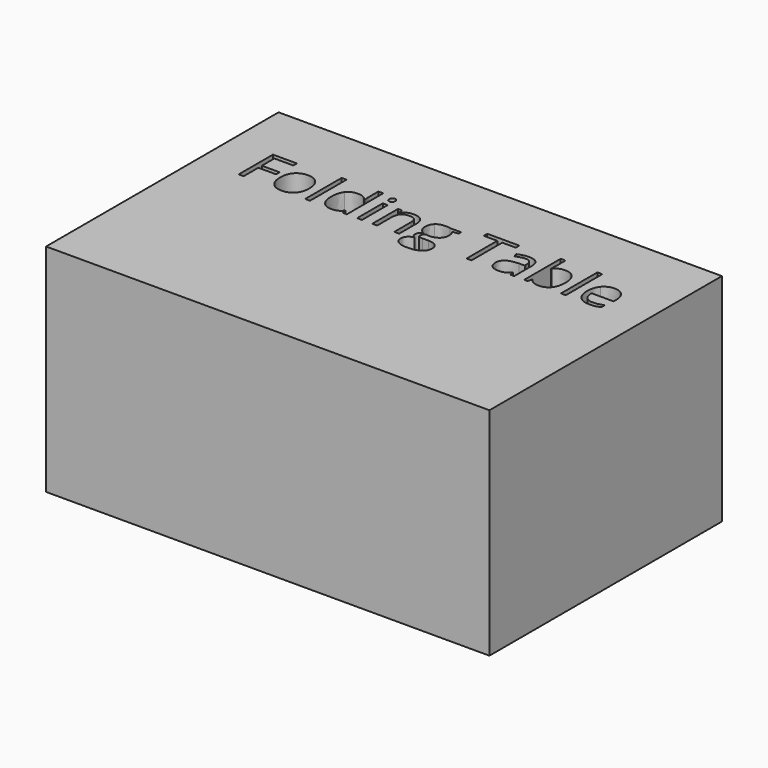
from build123d import *

# Parameters (mm, degrees)
F0_W     = 1511.3
F0_H     = 990.6
F0_W_2   = 16.5868941567
F0_H_2   = 155.4182394685
F0_H_3   = 109.4607177009
F1_DEPTH = 736.6


with BuildPart() as f1:
    # F0 (on Top) → F1 (new body)
    with BuildSketch(Plane.XY):
        Rectangle(F0_W, F0_H)
        Polygon((-597.9591323167, 211.9154573202), (-597.9591323167, 149.4988787305), (-614.929538477, 149.4988787305), (-614.929538477, 295.5210741102), (-533.5291157079, 295.5210741102), (-533.5291157079, 280.4362686343), (-597.9591323167, 280.4362686343), (-597.9591323167, 227.0002627961), (-537.4281544114, 227.0002627961), (-537.4281544114, 211.9154573202), align=None, mode=Mode.SUBTRACT)
        with BuildLine():
            add(Edge.make_bspline(
                [(-430.9236750717, 245.6804933059), (-417.3888972772, 230.3879521614), (-417.3888972772, 204.3410952487)],
                knots=[0, 0, 0, 1, 1, 1], degree=2))
            add(Edge.make_bspline(
                [(-417.3888972772, 204.3410952487), (-417.3888972772, 177.5591736623), (-430.8597564044, 162.5223071869)],
                knots=[0, 0, 0, 1, 1, 1], degree=2))
            add(Edge.make_bspline(
                [(-430.8597564044, 162.5223071869), (-444.3306155317, 147.4854407114), (-468.1083597564, 147.4854407114)],
                knots=[0, 0, 0, 1, 1, 1], degree=2))
            add(Edge.make_bspline(
                [(-468.1083597564, 147.4854407114), (-482.8096532286, 147.4854407114), (-494.1871760028, 154.3886567767)],
                knots=[0, 0, 0, 1, 1, 1], degree=2))
            add(Edge.make_bspline(
                [(-494.1871760028, 154.3886567767), (-505.564698777, 161.2918728419), (-511.7648095022, 174.1714842969)],
                knots=[0, 0, 0, 1, 1, 1], degree=2))
            add(Edge.make_bspline(
                [(-511.7648095022, 174.1714842969), (-517.9649202275, 187.051095752), (-517.9649202275, 204.3410952487)],
                knots=[0, 0, 0, 1, 1, 1], degree=2))
            add(Edge.make_bspline(
                [(-517.9649202275, 204.3410952487), (-517.9649202275, 231.0910575014), (-504.5739594343, 246.0320459759)],
                knots=[0, 0, 0, 1, 1, 1], degree=2))
            add(Edge.make_bspline(
                [(-504.5739594343, 246.0320459759), (-491.1829986411, 260.9730344504), (-467.4052544164, 260.9730344504)],
                knots=[0, 0, 0, 1, 1, 1], degree=2))
            add(Edge.make_bspline(
                [(-467.4052544164, 260.9730344504), (-444.4584528663, 260.9730344504), (-430.9236750717, 245.6804933059)],
                knots=[0, 0, 0, 1, 1, 1], degree=2))
        make_face(mode=Mode.SUBTRACT)
        with Locations((-380.0124565907, 227.2079984647)):
            Rectangle(F0_W_2, F0_H_2, mode=Mode.SUBTRACT)
        with BuildLine():
            Line((-259.8613417887, 149.4988787305), (-262.0665358096, 164.1682128691))
            Line((-262.0665358096, 164.1682128691), (-262.9613971513, 164.1682128691))
            add(Edge.make_bspline(
                [(-262.9613971513, 164.1682128691), (-274.4347979264, 147.4854407114), (-297.3176808093, 147.4854407114)],
                knots=[0, 0, 0, 1, 1, 1], degree=2))
            add(Edge.make_bspline(
                [(-297.3176808093, 147.4854407114), (-318.7943530122, 147.4854407114), (-330.731164125, 162.1707545169)],
                knots=[0, 0, 0, 1, 1, 1], degree=2))
            add(Edge.make_bspline(
                [(-330.731164125, 162.1707545169), (-342.6679752378, 176.8560683223), (-342.6679752378, 203.9256239114)],
                knots=[0, 0, 0, 1, 1, 1], degree=2))
            add(Edge.make_bspline(
                [(-342.6679752378, 203.9256239114), (-342.6679752378, 230.9951795005), (-330.6832251246, 245.9841069755)],
                knots=[0, 0, 0, 1, 1, 1], degree=2))
            add(Edge.make_bspline(
                [(-330.6832251246, 245.9841069755), (-318.6984750113, 260.9730344504), (-297.3176808093, 260.9730344504)],
                knots=[0, 0, 0, 1, 1, 1], degree=2))
            add(Edge.make_bspline(
                [(-297.3176808093, 260.9730344504), (-275.0420252655, 260.9730344504), (-263.1531531532, 244.7696522973)],
                knots=[0, 0, 0, 1, 1, 1], degree=2))
            Line((-263.1531531532, 244.7696522973), (-261.8428204741, 244.7696522973))
            Line((-261.8428204741, 244.7696522973), (-262.5459258141, 252.6636077053))
            Line((-262.5459258141, 252.6636077053), (-262.9613971513, 260.3658071114))
            Line((-262.9613971513, 260.3658071114), (-262.9613971513, 304.917118199))
            Line((-262.9613971513, 304.917118199), (-246.3745029946, 304.917118199))
            Line((-246.3745029946, 304.917118199), (-246.3745029946, 149.4988787305))
            Line((-246.3745029946, 149.4988787305), (-259.8613417887, 149.4988787305))
        make_face(mode=Mode.SUBTRACT)
        with Locations((-202.9257889174, 204.2292375809)):
            Rectangle(F0_W_2, F0_H_3, mode=Mode.SUBTRACT)
        with BuildLine():
            Line((-67.9775026423, 149.4988787305), (-84.564396799, 149.4988787305))
            Line((-84.564396799, 149.4988787305), (-84.564396799, 220.3207620663))
            add(Edge.make_bspline(
                [(-84.564396799, 220.3207620663), (-84.564396799, 233.6797635259), (-90.6526498566, 240.2793659216)],
                knots=[0, 0, 0, 1, 1, 1], degree=2))
            add(Edge.make_bspline(
                [(-90.6526498566, 240.2793659216), (-96.7409029141, 246.8789683173), (-109.7483517037, 246.8789683173)],
                knots=[0, 0, 0, 1, 1, 1], degree=2))
            add(Edge.make_bspline(
                [(-109.7483517037, 246.8789683173), (-126.9105138658, 246.8789683173), (-134.9003472746, 237.5947818962)],
                knots=[0, 0, 0, 1, 1, 1], degree=2))
            add(Edge.make_bspline(
                [(-134.9003472746, 237.5947818962), (-142.8901806835, 228.3105954751), (-142.8901806835, 206.9298012731)],
                knots=[0, 0, 0, 1, 1, 1], degree=2))
            Line((-142.8901806835, 206.9298012731), (-142.8901806835, 149.4988787305))
            Line((-142.8901806835, 149.4988787305), (-159.4770748402, 149.4988787305))
            Line((-159.4770748402, 149.4988787305), (-159.4770748402, 258.9595964314))
            Line((-159.4770748402, 258.9595964314), (-145.9902360461, 258.9595964314))
            Line((-145.9902360461, 258.9595964314), (-143.3056520207, 243.9706689565))
            Line((-143.3056520207, 243.9706689565), (-142.5066686799, 243.9706689565))
            add(Edge.make_bspline(
                [(-142.5066686799, 243.9706689565), (-137.3931752982, 252.0563803662), (-128.2048668781, 256.5147074083)],
                knots=[0, 0, 0, 1, 1, 1], degree=2))
            add(Edge.make_bspline(
                [(-128.2048668781, 256.5147074083), (-119.0165584579, 260.9730344504), (-107.7349136846, 260.9730344504)],
                knots=[0, 0, 0, 1, 1, 1], degree=2))
            add(Edge.make_bspline(
                [(-107.7349136846, 260.9730344504), (-87.9520861644, 260.9730344504), (-77.9647944033, 251.4331733603)],
                knots=[0, 0, 0, 1, 1, 1], degree=2))
            add(Edge.make_bspline(
                [(-77.9647944033, 251.4331733603), (-67.9775026423, 241.8933122702), (-67.9775026423, 220.8960300718)],
                knots=[0, 0, 0, 1, 1, 1], degree=2))
            Line((-67.9775026423, 220.8960300718), (-67.9775026423, 149.4988787305))
        make_face(mode=Mode.SUBTRACT)
        with BuildLine():
            add(Edge.make_bspline(
                [(-209.8290049826, 280.2764719662), (-212.6254466757, 283.0249746588), (-212.6254466757, 288.617858045)],
                knots=[0, 0, 0, 1, 1, 1], degree=2))
            add(Edge.make_bspline(
                [(-212.6254466757, 288.617858045), (-212.6254466757, 294.3066194321), (-209.8290049826, 296.9592441238)],
                knots=[0, 0, 0, 1, 1, 1], degree=2))
            add(Edge.make_bspline(
                [(-209.8290049826, 296.9592441238), (-207.0325632895, 299.6118688155), (-202.8139312497, 299.6118688155)],
                knots=[0, 0, 0, 1, 1, 1], degree=2))
            add(Edge.make_bspline(
                [(-202.8139312497, 299.6118688155), (-198.8190145453, 299.6118688155), (-195.9266948513, 296.9113051233)],
                knots=[0, 0, 0, 1, 1, 1], degree=2))
            add(Edge.make_bspline(
                [(-195.9266948513, 296.9113051233), (-193.0343751573, 294.2107414312), (-193.0343751573, 288.617858045)],
                knots=[0, 0, 0, 1, 1, 1], degree=2))
            add(Edge.make_bspline(
                [(-193.0343751573, 288.617858045), (-193.0343751573, 283.0249746588), (-195.9266948513, 280.2764719662)],
                knots=[0, 0, 0, 1, 1, 1], degree=2))
            add(Edge.make_bspline(
                [(-195.9266948513, 280.2764719662), (-198.8190145453, 277.5279692735), (-202.8139312497, 277.5279692735)],
                knots=[0, 0, 0, 1, 1, 1], degree=2))
            add(Edge.make_bspline(
                [(-202.8139312497, 277.5279692735), (-207.0325632895, 277.5279692735), (-209.8290049826, 280.2764719662)],
                knots=[0, 0, 0, 1, 1, 1], degree=2))
        make_face(mode=Mode.SUBTRACT)
        with BuildLine():
            Line((17.8013488349, 258.9595964314), (55.6411998591, 258.9595964314))
            Line((55.6411998591, 258.9595964314), (55.6411998591, 248.476934999))
            Line((55.6411998591, 248.476934999), (35.3789823343, 246.0799849764))
            add(Edge.make_bspline(
                [(35.3789823343, 246.0799849764), (38.1594443606, 242.5964176101), (40.3646383814, 236.9396155567)],
                knots=[0, 0, 0, 1, 1, 1], degree=2))
            add(Edge.make_bspline(
                [(40.3646383814, 236.9396155567), (42.5698324022, 231.2828135032), (42.5698324022, 224.2198007698)],
                knots=[0, 0, 0, 1, 1, 1], degree=2))
            add(Edge.make_bspline(
                [(42.5698324022, 224.2198007698), (42.5698324022, 208.1122966176), (31.5758216317, 198.524496527)],
                knots=[0, 0, 0, 1, 1, 1], degree=2))
            add(Edge.make_bspline(
                [(31.5758216317, 198.524496527), (20.5818108611, 188.9366964364), (1.40621068, 188.9366964364)],
                knots=[0, 0, 0, 1, 1, 1], degree=2))
            add(Edge.make_bspline(
                [(1.40621068, 188.9366964364), (-3.4835673662, 188.9366964364), (-7.7661180734, 189.7356797773)],
                knots=[0, 0, 0, 1, 1, 1], degree=2))
            add(Edge.make_bspline(
                [(-7.7661180734, 189.7356797773), (-18.3446575067, 184.1427963911), (-18.3446575067, 175.6735729778)],
                knots=[0, 0, 0, 1, 1, 1], degree=2))
            add(Edge.make_bspline(
                [(-18.3446575067, 175.6735729778), (-18.3446575067, 171.1673069352), (-14.6533544718, 169.0260315816)],
                knots=[0, 0, 0, 1, 1, 1], degree=2))
            add(Edge.make_bspline(
                [(-14.6533544718, 169.0260315816), (-10.9620514369, 166.8847562281), (-1.9814786854, 166.8847562281)],
                knots=[0, 0, 0, 1, 1, 1], degree=2))
            Line((-1.9814786854, 166.8847562281), (17.3858774976, 166.8847562281))
            add(Edge.make_bspline(
                [(17.3858774976, 166.8847562281), (35.1872263325, 166.8847562281), (44.7111077558, 159.3902924906)],
                knots=[0, 0, 0, 1, 1, 1], degree=2))
            add(Edge.make_bspline(
                [(44.7111077558, 159.3902924906), (54.2349891791, 151.8958287531), (54.2349891791, 137.6100066181)],
                knots=[0, 0, 0, 1, 1, 1], degree=2))
            add(Edge.make_bspline(
                [(54.2349891791, 137.6100066181), (54.2349891791, 119.4251457796), (39.6615330414, 109.8852846895)],
                knots=[0, 0, 0, 1, 1, 1], degree=2))
            add(Edge.make_bspline(
                [(39.6615330414, 109.8852846895), (25.0880769037, 100.3454235994), (-2.8763400272, 100.3454235994)],
                knots=[0, 0, 0, 1, 1, 1], degree=2))
            add(Edge.make_bspline(
                [(-2.8763400272, 100.3454235994), (-24.3530122301, 100.3454235994), (-35.9862096734, 108.3352570082)],
                knots=[0, 0, 0, 1, 1, 1], degree=2))
            add(Edge.make_bspline(
                [(-35.9862096734, 108.3352570082), (-47.6194071166, 116.325090417), (-47.6194071166, 130.9305058884)],
                knots=[0, 0, 0, 1, 1, 1], degree=2))
            add(Edge.make_bspline(
                [(-47.6194071166, 130.9305058884), (-47.6194071166, 140.9018179826), (-41.2275403896, 148.2045257182)],
                knots=[0, 0, 0, 1, 1, 1], degree=2))
            add(Edge.make_bspline(
                [(-41.2275403896, 148.2045257182), (-34.8356736625, 155.5072334539), (-23.2663948865, 158.0959394784)],
                knots=[0, 0, 0, 1, 1, 1], degree=2))
            add(Edge.make_bspline(
                [(-23.2663948865, 158.0959394784), (-27.4530675927, 159.9815401629), (-30.2974482863, 163.9764568673)],
                knots=[0, 0, 0, 1, 1, 1], degree=2))
            add(Edge.make_bspline(
                [(-30.2974482863, 163.9764568673), (-33.1418289798, 167.9713735717), (-33.1418289798, 173.2766229551)],
                knots=[0, 0, 0, 1, 1, 1], degree=2))
            add(Edge.make_bspline(
                [(-33.1418289798, 173.2766229551), (-33.1418289798, 179.2530183449), (-29.9458956163, 183.7592843875)],
                knots=[0, 0, 0, 1, 1, 1], degree=2))
            add(Edge.make_bspline(
                [(-29.9458956163, 183.7592843875), (-26.7499622528, 188.2655504301), (-19.8467461875, 192.4522231363)],
                knots=[0, 0, 0, 1, 1, 1], degree=2))
            add(Edge.make_bspline(
                [(-19.8467461875, 192.4522231363), (-28.3479289345, 195.9357905026), (-33.6851376516, 204.3251155818)],
                knots=[0, 0, 0, 1, 1, 1], degree=2))
            add(Edge.make_bspline(
                [(-33.6851376516, 204.3251155818), (-39.0223463687, 212.7144406611), (-39.0223463687, 223.5166954299)],
                knots=[0, 0, 0, 1, 1, 1], degree=2))
            add(Edge.make_bspline(
                [(-39.0223463687, 223.5166954299), (-39.0223463687, 241.4778409329), (-28.2360712668, 251.2254376917)],
                knots=[0, 0, 0, 1, 1, 1], degree=2))
            add(Edge.make_bspline(
                [(-28.2360712668, 251.2254376917), (-17.4497961649, 260.9730344504), (2.3010720217, 260.9730344504)],
                knots=[0, 0, 0, 1, 1, 1], degree=2))
            add(Edge.make_bspline(
                [(2.3010720217, 260.9730344504), (10.8981327696, 260.9730344504), (17.8013488349, 258.9595964314)],
                knots=[0, 0, 0, 1, 1, 1], degree=2))
        make_face(mode=Mode.SUBTRACT)
        Polygon((178.684634355, 280.4362686343), (178.684634355, 149.4988787305), (161.7142281947, 149.4988787305), (161.7142281947, 280.4362686343), (115.4690724244, 280.4362686343), (115.4690724244, 295.5210741102), (224.9297901253, 295.5210741102), (224.9297901253, 280.4362686343), align=None, mode=Mode.SUBTRACT)
        with BuildLine():
            Line((324.0356837284, 149.4988787305), (311.7313402788, 149.4988787305))
            Line((311.7313402788, 149.4988787305), (308.4395289144, 165.0950335445))
            Line((308.4395289144, 165.0950335445), (307.6405455735, 165.0950335445))
            add(Edge.make_bspline(
                [(307.6405455735, 165.0950335445), (299.4589561629, 154.8041281139), (291.3253057527, 151.1447844127)],
                knots=[0, 0, 0, 1, 1, 1], degree=2))
            add(Edge.make_bspline(
                [(291.3253057527, 151.1447844127), (283.1916553425, 147.4854407114), (270.9831898938, 147.4854407114)],
                knots=[0, 0, 0, 1, 1, 1], degree=2))
            add(Edge.make_bspline(
                [(270.9831898938, 147.4854407114), (254.7158890734, 147.4854407114), (245.4796416528, 155.8907454575)],
                knots=[0, 0, 0, 1, 1, 1], degree=2))
            add(Edge.make_bspline(
                [(245.4796416528, 155.8907454575), (236.2433942322, 164.2960502036), (236.2433942322, 179.7643676831)],
                knots=[0, 0, 0, 1, 1, 1], degree=2))
            add(Edge.make_bspline(
                [(236.2433942322, 179.7643676831), (236.2433942322, 212.9061966629), (289.2639287332, 214.5041633447)],
                knots=[0, 0, 0, 1, 1, 1], degree=2))
            Line((289.2639287332, 214.5041633447), (307.8323015753, 215.1113906838))
            Line((307.8323015753, 215.1113906838), (307.8323015753, 221.9187287481))
            add(Edge.make_bspline(
                [(307.8323015753, 221.9187287481), (307.8323015753, 234.7983402031), (302.3033368564, 240.9345322611)],
                knots=[0, 0, 0, 1, 1, 1], degree=2))
            add(Edge.make_bspline(
                [(302.3033368564, 240.9345322611), (296.7743721375, 247.0707243191), (284.5659066888, 247.0707243191)],
                knots=[0, 0, 0, 1, 1, 1], degree=2))
            add(Edge.make_bspline(
                [(284.5659066888, 247.0707243191), (270.8873118929, 247.0707243191), (253.6292717298, 238.6973789066)],
                knots=[0, 0, 0, 1, 1, 1], degree=2))
            Line((253.6292717298, 238.6973789066), (248.5157783482, 251.3852343598))
            add(Edge.make_bspline(
                [(248.5157783482, 251.3852343598), (256.6014897579, 255.7636630679), (266.237228849, 258.2564910914)],
                knots=[0, 0, 0, 1, 1, 1], degree=2))
            add(Edge.make_bspline(
                [(266.237228849, 258.2564910914), (275.87296794, 260.749319115), (285.5886053651, 260.749319115)],
                knots=[0, 0, 0, 1, 1, 1], degree=2))
            add(Edge.make_bspline(
                [(285.5886053651, 260.749319115), (305.14771755, 260.749319115), (314.5917006392, 252.072360033)],
                knots=[0, 0, 0, 1, 1, 1], degree=2))
            add(Edge.make_bspline(
                [(314.5917006392, 252.072360033), (324.0356837284, 243.395400951), (324.0356837284, 224.2198007698)],
                knots=[0, 0, 0, 1, 1, 1], degree=2))
            Line((324.0356837284, 224.2198007698), (324.0356837284, 149.4988787305))
        make_face(mode=Mode.SUBTRACT)
        with BuildLine():
            add(Edge.make_bspline(
                [(374.7551462077, 244.3861402937), (386.3244249836, 260.749319115), (409.1114298656, 260.749319115)],
                knots=[0, 0, 0, 1, 1, 1], degree=2))
            add(Edge.make_bspline(
                [(409.1114298656, 260.749319115), (430.6839800695, 260.749319115), (442.6207911822, 246.0160663091)],
                knots=[0, 0, 0, 1, 1, 1], degree=2))
            add(Edge.make_bspline(
                [(442.6207911822, 246.0160663091), (454.557602295, 231.2828135032), (454.557602295, 204.3410952487)],
                knots=[0, 0, 0, 1, 1, 1], degree=2))
            add(Edge.make_bspline(
                [(454.557602295, 204.3410952487), (454.557602295, 177.3674176605), (442.5249131813, 162.426429186)],
                knots=[0, 0, 0, 1, 1, 1], degree=2))
            add(Edge.make_bspline(
                [(442.5249131813, 162.426429186), (430.4922240676, 147.4854407114), (409.1114298656, 147.4854407114)],
                knots=[0, 0, 0, 1, 1, 1], degree=2))
            add(Edge.make_bspline(
                [(409.1114298656, 147.4854407114), (398.4050530978, 147.4854407114), (389.5682973476, 151.4324184154)],
                knots=[0, 0, 0, 1, 1, 1], degree=2))
            add(Edge.make_bspline(
                [(389.5682973476, 151.4324184154), (380.7315415975, 155.3793961194), (374.7551462077, 163.5929448636)],
                knots=[0, 0, 0, 1, 1, 1], degree=2))
            Line((374.7551462077, 163.5929448636), (373.5406915295, 163.5929448636))
            Line((373.5406915295, 163.5929448636), (370.0571241633, 149.4988787305))
            Line((370.0571241633, 149.4988787305), (358.1682520509, 149.4988787305))
            Line((358.1682520509, 149.4988787305), (358.1682520509, 304.917118199))
            Line((358.1682520509, 304.917118199), (374.7551462077, 304.917118199))
            Line((374.7551462077, 304.917118199), (374.7551462077, 267.1411858421))
            add(Edge.make_bspline(
                [(374.7551462077, 267.1411858421), (374.7551462077, 254.4533303888), (373.9561628668, 244.3861402937)],
                knots=[0, 0, 0, 1, 1, 1], degree=2))
            Line((373.9561628668, 244.3861402937), (374.7551462077, 244.3861402937))
        make_face(mode=Mode.SUBTRACT)
        with Locations((491.806205647, 227.2079984647)):
            Rectangle(F0_W_2, F0_H_2, mode=Mode.SUBTRACT)
        with BuildLine():
            add(Edge.make_bspline(
                [(600.4200010066, 149.1473260605), (592.5899642659, 147.4854407114), (581.5000754945, 147.4854407114)],
                knots=[0, 0, 0, 1, 1, 1], degree=2))
            add(Edge.make_bspline(
                [(581.5000754945, 147.4854407114), (557.2429412653, 147.4854407114), (543.1968141326, 162.2826121846)],
                knots=[0, 0, 0, 1, 1, 1], degree=2))
            add(Edge.make_bspline(
                [(543.1968141326, 162.2826121846), (529.1506869998, 177.0797836577), (529.1506869998, 203.3183965723)],
                knots=[0, 0, 0, 1, 1, 1], degree=2))
            add(Edge.make_bspline(
                [(529.1506869998, 203.3183965723), (529.1506869998, 229.812684156), (542.1900951231, 245.3928593032)],
                knots=[0, 0, 0, 1, 1, 1], degree=2))
            add(Edge.make_bspline(
                [(542.1900951231, 245.3928593032), (555.2295032463, 260.9730344504), (577.2175247874, 260.9730344504)],
                knots=[0, 0, 0, 1, 1, 1], degree=2))
            add(Edge.make_bspline(
                [(577.2175247874, 260.9730344504), (597.7673763149, 260.9730344504), (609.7521264281, 247.4382566559)],
                knots=[0, 0, 0, 1, 1, 1], degree=2))
            add(Edge.make_bspline(
                [(609.7521264281, 247.4382566559), (621.7368765413, 233.9034788613), (621.7368765413, 211.7237013184)],
                knots=[0, 0, 0, 1, 1, 1], degree=2))
            Line((621.7368765413, 211.7237013184), (621.7368765413, 201.241039886))
            Line((621.7368765413, 201.241039886), (546.3448084956, 201.241039886))
            add(Edge.make_bspline(
                [(546.3448084956, 201.241039886), (546.8561578338, 181.9695617039), (556.0924052544, 171.9822699429)],
                knots=[0, 0, 0, 1, 1, 1], degree=2))
            add(Edge.make_bspline(
                [(556.0924052544, 171.9822699429), (565.328652675, 161.9949781819), (582.1073028336, 161.9949781819)],
                knots=[0, 0, 0, 1, 1, 1], degree=2))
            add(Edge.make_bspline(
                [(582.1073028336, 161.9949781819), (599.7808143339, 161.9949781819), (617.038854497, 169.3775842516)],
                knots=[0, 0, 0, 1, 1, 1], degree=2))
            Line((617.038854497, 169.3775842516), (617.038854497, 154.5804127785))
            add(Edge.make_bspline(
                [(617.038854497, 154.5804127785), (608.2500377472, 150.8092114095), (600.4200010066, 149.1473260605)],
                knots=[0, 0, 0, 1, 1, 1], degree=2))
        make_face(mode=Mode.SUBTRACT)
    extrude(amount=F1_DEPTH)


solid = f1.part
